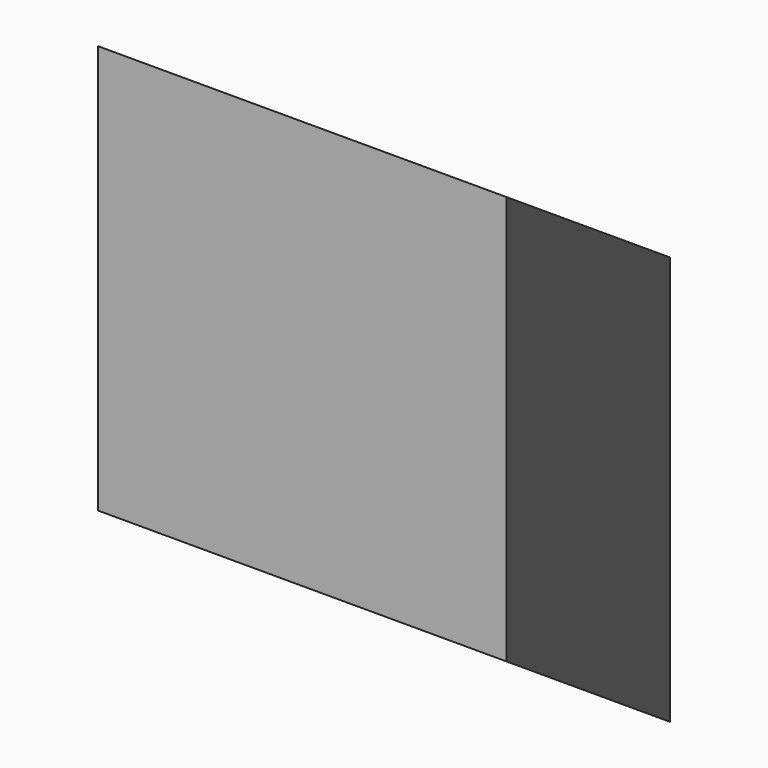
from build123d import *

# Parameters (mm, degrees)
F0_W = 70
F0_H = 70
F2_W = 70
F2_H = 70


with BuildPart() as f3:
    # F0 (on Front) → F3 section 0
    with BuildSketch(Plane.XZ):
        with Locations((35, 35)):
            Rectangle(F0_W, F0_H)
    # F2 (on offset) → F3 section 1
    with BuildSketch(Plane.XZ.offset(210)):
        with Locations((175, 175)):
            Rectangle(F2_W, F2_H)
    loft()


solid = f3.part
